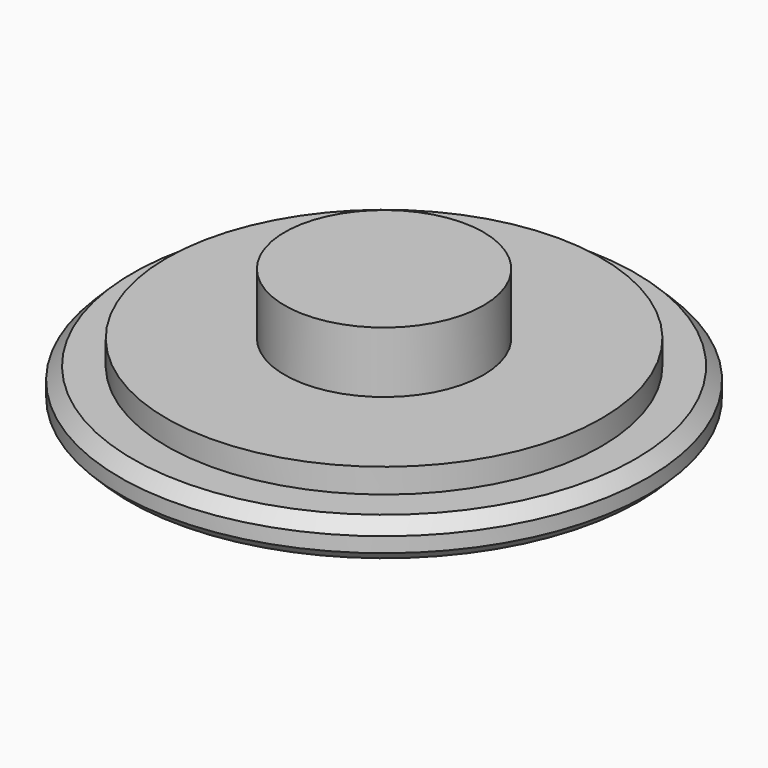
from build123d import *

# Parameters (mm, degrees)
F0_R     = 4.064
F1_DEPTH = 5
F0_R_2   = 8.89
F2_DEPTH = 2.5
F0_R_3   = 10.795
F3_DEPTH = 1.5
F5_DEPTH = 0.5
F6_SIZE  = 0.508
F7_SIZE  = 0.381


with BuildPart() as f1:
    # F0 (on Top) → F1 (new body)
    with BuildSketch(Plane.XY):
        Circle(F0_R)
    extrude(amount=F1_DEPTH)

    # F0 (on Top) → F2 (join)
    with BuildSketch(Plane.XY):
        Circle(F0_R_2)
        Circle(F0_R, mode=Mode.SUBTRACT)
    extrude(amount=F2_DEPTH)

    # F0 (on Top) → F3 (join)
    with BuildSketch(Plane.XY):
        Circle(F0_R_3)
        Circle(F0_R_2, mode=Mode.SUBTRACT)
    extrude(amount=F3_DEPTH)

    # F4 (on face) → F5 (cut)
    with BuildSketch(Plane(origin=(0, 0, 0), x_dir=(1, 0, 0), z_dir=(0, 0, -1))):
        Polygon((-6.200742, -0.58), (-8.798818, -5.08), (-1.75, -5.08), (-1.75, -3.58), (-6.200742, -3.58), (-4.468691, -0.58), align=None)
        Polygon((0, 10.16), (-5.334716, 0.92), (-3.602666, 0.92), (-2.73664, 2.42), (0, 7.16), (1.870615, 3.92), (3.602666, 3.92), align=None)
        Polygon((1.75, -3.58), (1.75, -5.08), (8.798818, -5.08), (4.468691, 2.42), (2.73664, 2.42), (3.602666, 0.92), (6.200742, -3.58), align=None)
        Polygon((-2.73664, 2.42), (-3.602666, 0.92), (3.602666, 0.92), (2.73664, 2.42), align=None)
    extrude(amount=-F5_DEPTH, mode=Mode.SUBTRACT)

    # F6
    f6_edges = [f1.edges().sort_by_distance(p)[0] for p in [
        (-10.795, 0, 1.5),
    ]]
    chamfer(f6_edges, length=F6_SIZE)

    # F7
    f7_edges = [f1.edges().sort_by_distance(p)[0] for p in [
        (-10.795, 0, 0),
    ]]
    chamfer(f7_edges, length=F7_SIZE)


solid = f1.part
